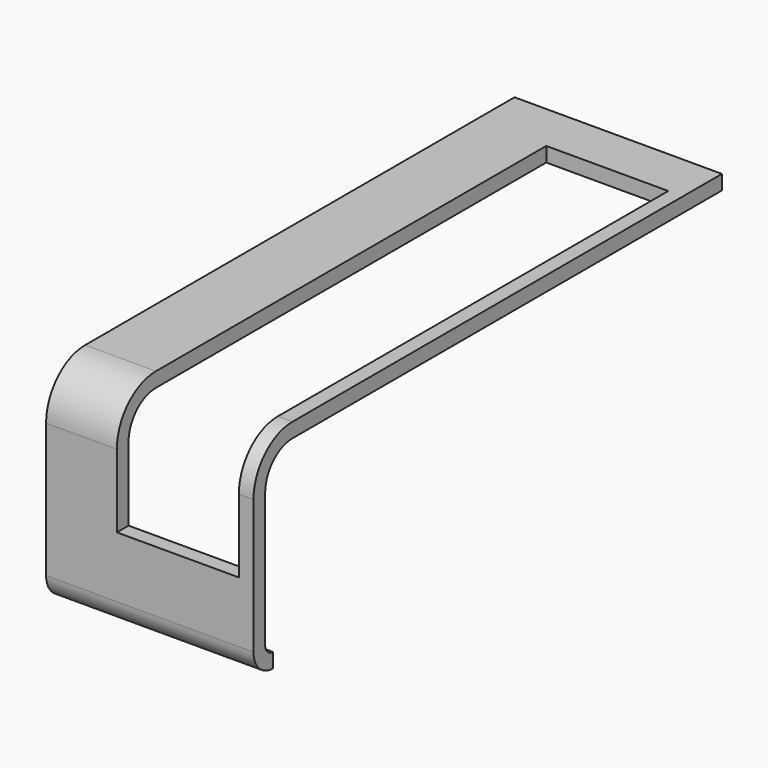
from build123d import *

# Parameters (mm, degrees)
F1_DEPTH = 42.5
F2_W     = 25
F2_H     = 25
F3_DEPTH = 110


with BuildPart() as f1:
    # F0 (on Right) → F1 (new body)
    with BuildSketch(Plane.YZ):
        with BuildLine():
            Line((120, -3), (120, 0))
            Line((120, 0), (10, 0))
            ThreePointArc((10, 0), (2.928932, -2.928932), (0, -10))
            Line((0, -10), (0, -37.5))
            ThreePointArc((0, -37.5), (1.464466, -41.035534), (5, -42.5))
            Line((5, -42.5), (5, -39.5))
            ThreePointArc((5, -39.5), (3.585786, -38.914214), (3, -37.5))
            Line((3, -37.5), (3, -10))
            ThreePointArc((3, -10), (5.050253, -5.050253), (10, -3))
            Line((10, -3), (120, -3))
        make_face()
    extrude(amount=F1_DEPTH)

    # F2 (on face) → F3 (cut)
    with BuildSketch(Plane.XZ):
        with Locations((27, -12.5)):
            Rectangle(F2_W, F2_H)
    extrude(amount=-F3_DEPTH, mode=Mode.SUBTRACT)


solid = f1.part
